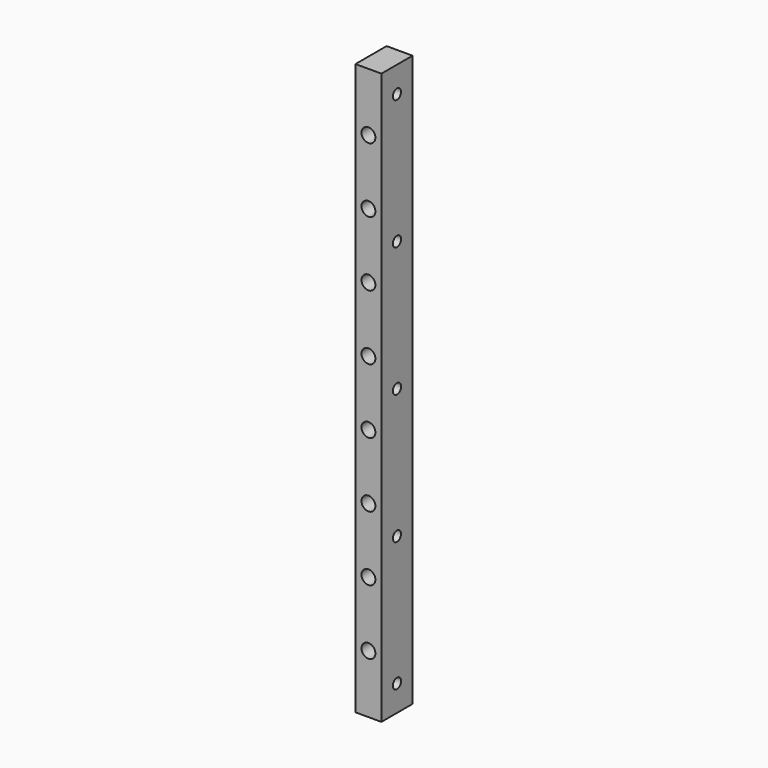
from build123d import *

# Parameters (mm, degrees)
F0_W     = 12.7
F0_H     = 279.4
F1_DEPTH = 19.05
F3_D     = 5
F5_D     = 6.8


with BuildPart() as f1:
    # F0 (on Front) → F1 (new body)
    with BuildSketch(Plane.XZ):
        Rectangle(F0_W, F0_H)
    extrude(amount=F1_DEPTH)

    # F3 (through all)
    with Locations(Plane.YZ.offset(6.35)):
        with Locations((-9.525, 127), (-9.525, 63.5), (-9.525, 0), (-9.525, -63.5), (-9.525, -127)):
            Hole(F3_D / 2)

    # F5 (through all)
    with Locations(Plane.XZ.offset(19.05)):
        with Locations((0, 111.125), (0, 79.375), (0, 47.625), (0, 15.875), (0, -15.875), (0, -47.625), (0, -79.375), (0, -111.125)):
            Hole(F5_D / 2)


solid = f1.part
